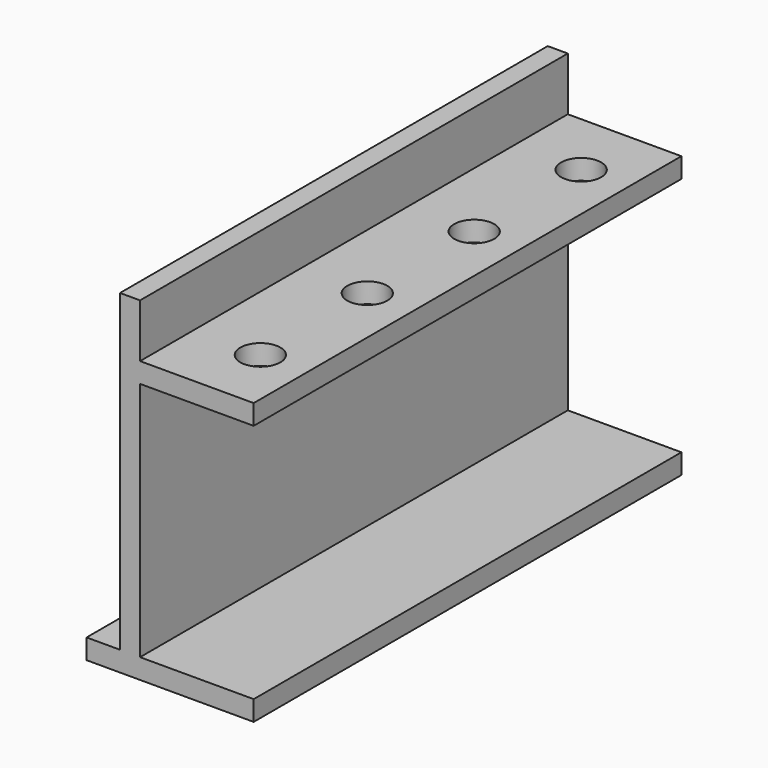
from build123d import *

# Parameters (mm, degrees)
F0_W     = 20
F0_H     = 80
F1_DEPTH = 50
F2_W     = 17
F2_H     = 36
F2_H_2   = 8
F3_DEPTH = 80.001
F4_R     = 3
F5_DEPTH = 3
F6_W     = 5
F6_H     = 3
F7_DEPTH = 80


with BuildPart() as f1:
    # F0 (on Top) → F1 (new body)
    with BuildSketch(Plane.XY):
        Rectangle(F0_W, F0_H)
    extrude(amount=F1_DEPTH)

    # F2 (on face) → F3 (cut, through all)
    with BuildSketch(Plane.XZ.offset(40)):
        with Locations((1.5, 21)):
            Rectangle(F2_W, F2_H)
        with Locations((1.5, 46)):
            Rectangle(F2_W, F2_H_2)
    extrude(amount=-F3_DEPTH, mode=Mode.SUBTRACT)

    # F4 (on face) → F5 (cut, through all)
    with BuildSketch(Plane.XY.offset(42)):
        with Locations((3, -30)):
            Circle(F4_R)
        with Locations((3, -10)):
            Circle(F4_R)
        with Locations((3, 10)):
            Circle(F4_R)
        with Locations((3, 30)):
            Circle(F4_R)
    extrude(amount=-F5_DEPTH, mode=Mode.SUBTRACT)

    # F6 (on face) → F7 (join, through all)
    with BuildSketch(Plane.XZ.offset(40)):
        with Locations((-12.5, 1.5)):
            Rectangle(F6_W, F6_H)
    extrude(amount=-F7_DEPTH)


solid = f1.part
